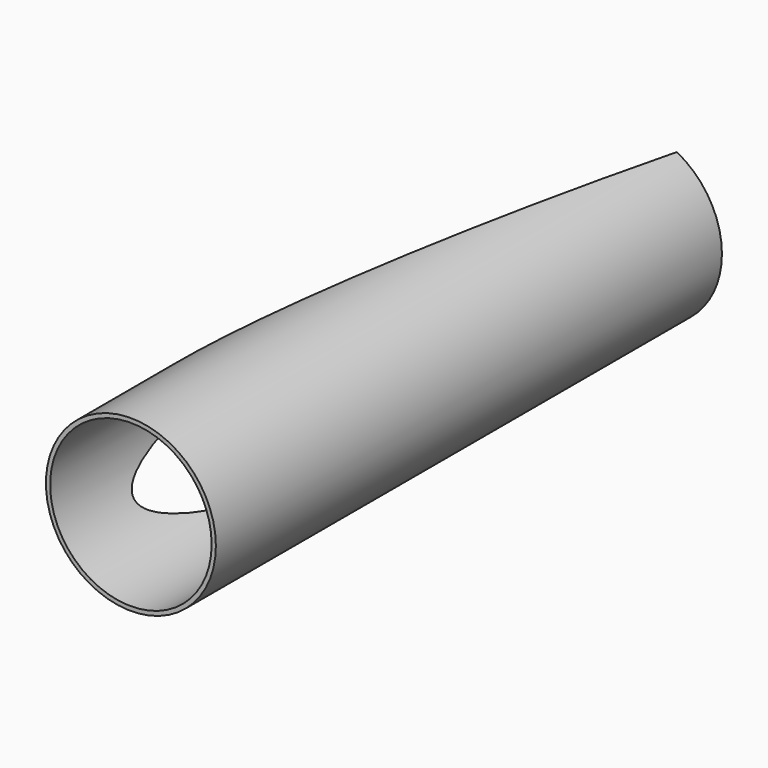
from build123d import *

# Parameters (mm, degrees)
F0_R     = 20.15
F0_R_2   = 19.15
F1_DEPTH = 150
F4_DEPTH = 151.221174
F5_DEPTH = 3.500011


with BuildPart() as f1:
    # F0 (on Front) → F1 (new body)
    with BuildSketch(Plane.XZ):
        Circle(F0_R)
        Circle(F0_R_2, mode=Mode.SUBTRACT)
    extrude(amount=F1_DEPTH)

    # F3 (on face) → F4 (cut, through all)
    with BuildSketch(Plane(origin=(0, 0, 0), x_dir=(-0.984808, 0.173648, 0), z_dir=(0.173648, 0.984808, 0))):
        with BuildLine():
            Line((0, 0), (-16.027075, -25.360064))
            ThreePointArc((-16.027075, -25.360064), (29.975998, -1.199822), (-13.948922, 26.559887))
            Line((-13.948922, 26.559887), (0, 0))
        make_face()
    extrude(amount=-F4_DEPTH, mode=Mode.SUBTRACT)

    # F3 (on face) → F5 (cut, through all)
    with BuildSketch(Plane(origin=(0, 0, 0), x_dir=(-0.984808, 0.173648, 0), z_dir=(0.173648, 0.984808, 0))):
        with BuildLine():
            Line((0, 0), (-16.027075, -25.360064))
            ThreePointArc((-16.027075, -25.360064), (29.975998, -1.199822), (-13.948922, 26.559887))
            Line((-13.948922, 26.559887), (0, 0))
        make_face()
    extrude(amount=F5_DEPTH, mode=Mode.SUBTRACT)


solid = f1.part
